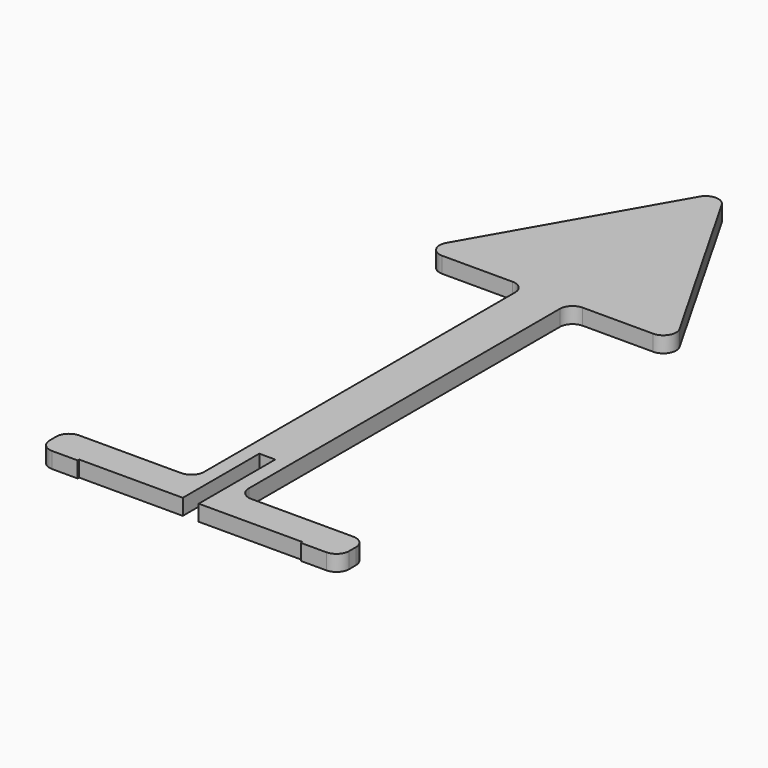
from build123d import *

# Parameters (mm, degrees)
F0_W     = 6
F0_H     = 0.3
F1_DEPTH = 2.5
F2_R     = 2


with BuildPart() as f1:
    # F0 (on Top) → F1 (new body)
    with BuildSketch(Plane.XY):
        Polygon((0, 35), (-20, 0), (-3.5, 0), (3.5, 0), (20, 0), align=None)
        Polygon((3.5, 0), (-3.5, 0), (-3.5, -65), (-23.5, -65), (-23.5, -70), (-17.5, -70), (-1.25, -70), (-1.25, -55), (1.25, -55), (1.25, -70), (17.5, -70), (23.5, -70), (23.5, -65), (3.5, -65), align=None)
        with Locations((-20.5, -70.15)):
            Rectangle(F0_W, F0_H)
        with Locations((20.5, -70.15)):
            Rectangle(F0_W, F0_H)
    extrude(amount=F1_DEPTH)

    # F2
    f2_edges = [f1.edges().sort_by_distance(p)[0] for p in [
        (-3.5, 0, 1.25),
        (3.5, 0, 1.25),
        (20, 0, 1.25),
        (-20, 0, 1.25),
        (0, 35, 1.25),
        (3.5, -65, 1.25),
        (-3.5, -65, 1.25),
        (-23.5, -65, 1.25),
        (23.5, -65, 1.25),
        (-23.5, -70.3, 1.25),
        (23.5, -70.3, 1.25),
    ]]
    fillet(f2_edges, radius=F2_R)


solid = f1.part
